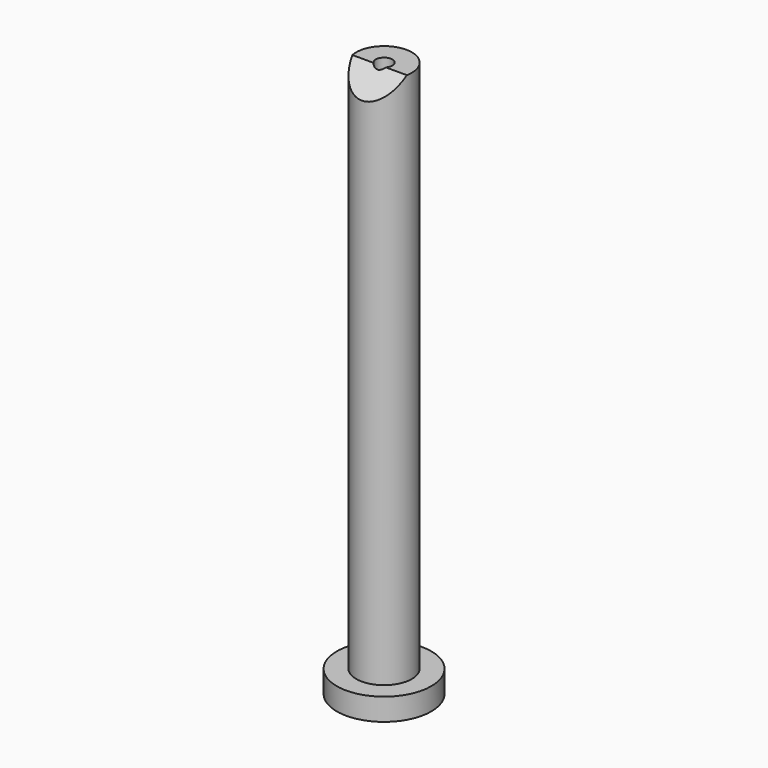
from build123d import *

# Parameters (mm, degrees)
F0_R          = 8.5
F1_DEPTH      = 4
F2_R          = 5
F3_DEPTH      = 100
F5_DEPTH      = 25
F5_DEPTH_BACK = 25
F6_R          = 1.5
F7_DEPTH      = 130.6


with BuildPart() as f1:
    # F0 (on Top) → F1 (new body)
    with BuildSketch(Plane.XY):
        Circle(F0_R)
    extrude(amount=F1_DEPTH)

    # F2 (on Top) → F3 (join)
    with BuildSketch(Plane.XY):
        Circle(F2_R)
    extrude(amount=F3_DEPTH)

    # F4 (on Right) → F5 (cut, two sides)
    with BuildSketch(Plane.YZ) as f5_sk:
        Polygon((0, 101), (-5, 101), (-5, 96), align=None)
    extrude(amount=F5_DEPTH, mode=Mode.SUBTRACT)
    extrude(f5_sk.sketch, amount=-F5_DEPTH_BACK, mode=Mode.SUBTRACT)

    # F6 (on face) → F7 (cut)
    with BuildSketch(Plane(origin=(0, 0, 0), x_dir=(1, 0, 0), z_dir=(0, 0, -1))):
        Circle(F6_R)
    extrude(amount=-F7_DEPTH, mode=Mode.SUBTRACT)


solid = f1.part
